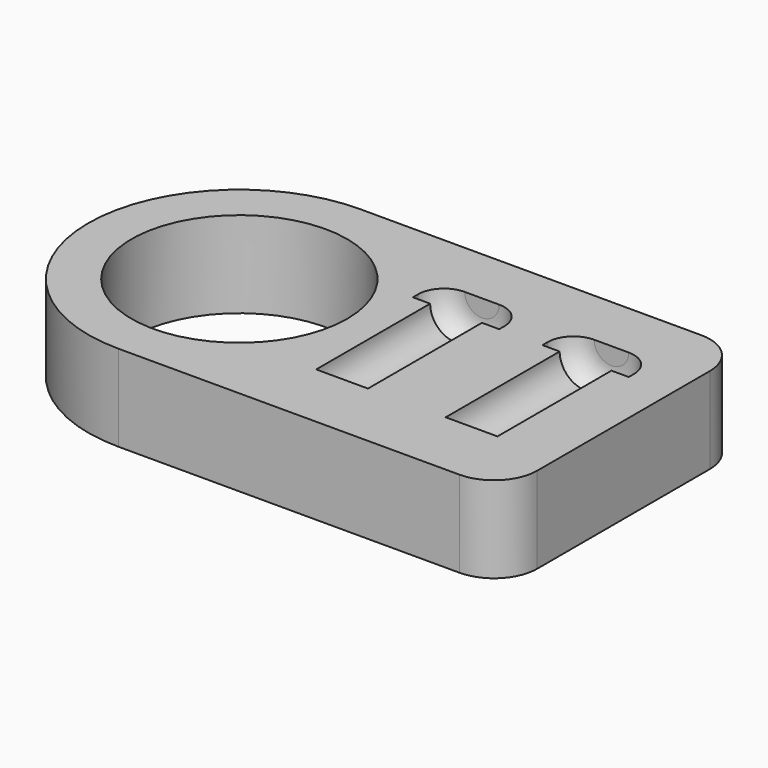
from build123d import *

# Parameters (mm, degrees)
F0_R     = 12.5
F1_DEPTH = 10


with BuildPart() as f1:
    # F0 (on Top) → F1 (new body)
    with BuildSketch(Plane.XY):
        with BuildLine():
            ThreePointArc((0, 17.5), (5.125631, 5.125631), (17.5, 0))
            Line((17.5, 0), (57, 0))
            ThreePointArc((57, 0), (60.535534, 1.464466), (62, 5))
            Line((62, 5), (62, 30))
            ThreePointArc((62, 30), (60.535534, 33.535534), (57, 35))
            Line((57, 35), (17.5, 35))
            ThreePointArc((17.5, 35), (5.125631, 29.874369), (0, 17.5))
        make_face()
        with Locations((17.5, 17.5)):
            Circle(F0_R, mode=Mode.SUBTRACT)
    extrude(amount=F1_DEPTH)

    # F2 (on face) → F3 (revolve, cut)
    with BuildSketch(Plane.XY.offset(10)):
        with BuildLine():
            Line((37, 24.5), (37, 8))
            Line((37, 8), (40, 8))
            Line((40, 8), (40, 24.5))
            Line((40, 24.5), (42, 24.5))
            Line((42, 24.5), (42, 25.25))
            ThreePointArc((42, 25.25), (41.12132, 27.37132), (39, 28.25))
            Line((39, 28.25), (37, 28.25))
            Line((37, 28.25), (37, 24.5))
        make_face()
    revolve(axis=Axis((37, 16.25, 10), (0, 1, 0)), mode=Mode.SUBTRACT)

    # F2 (on face) → F4 (revolve, cut)
    with BuildSketch(Plane.XY.offset(10)):
        with BuildLine():
            Line((52, 24.5), (52, 8))
            Line((52, 8), (55, 8))
            Line((55, 8), (55, 24.5))
            Line((55, 24.5), (57, 24.5))
            Line((57, 24.5), (57, 25.25))
            ThreePointArc((57, 25.25), (56.12132, 27.37132), (54, 28.25))
            Line((54, 28.25), (52, 28.25))
            Line((52, 28.25), (52, 24.5))
        make_face()
    revolve(axis=Axis((52, 16.25, 10), (0, 1, 0)), mode=Mode.SUBTRACT)


solid = f1.part
